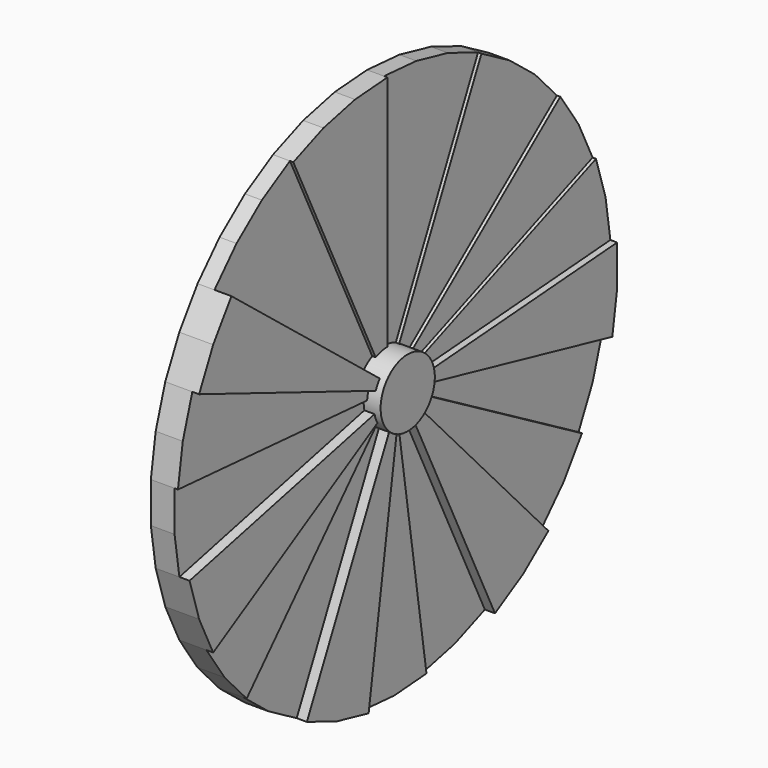
from build123d import *

# Parameters (mm, degrees)
F1_DEPTH = 25.4
F2_DEPTH = 31.75
F3_DEPTH = 38.1
F4_DEPTH = 44.45
F5_DEPTH = 50.8
F6_DEPTH = 63.5
F7_DEPTH = 76.2


with BuildPart() as f1:
    # F0 (on Right) → F1 (new body)
    with BuildSketch(Plane.YZ):
        with BuildLine():
            ThreePointArc((-27.551617434, 57.2115231118), (-14.1300793062, 61.9079224235), (0, 63.5))
            Line((0, 63.5), (0, 508))
            Line((0, 508), (-75.7134712175, 502.3260597224))
            Line((-75.7134712175, 502.3260597224), (-149.7356286007, 485.4309853394))
            Line((-149.7356286007, 485.4309853394), (-220.4129394717, 457.6921848944))
            Line((-220.4129394717, 457.6921848944), (-27.551617434, 57.2115231118))
        make_face()
        with BuildLine():
            Line((0, 508), (0, 63.5))
            ThreePointArc((0, 63.5), (14.1300793062, 61.9079224235), (27.551617434, 57.2115231118))
            Line((27.551617434, 57.2115231118), (220.4129394717, 457.6921848944))
            Line((220.4129394717, 457.6921848944), (149.7356286007, 485.4309853394))
            Line((149.7356286007, 485.4309853394), (75.7134712175, 502.3260597224))
            Line((75.7134712175, 502.3260597224), (0, 508))
        make_face()
        with BuildLine():
            Line((220.4129394717, 457.6921848944), (27.551617434, 57.2115231118))
            ThreePointArc((27.551617434, 57.2115231118), (39.591602418, 49.6462991367), (49.6462991367, 39.591602418))
            Line((49.6462991367, 39.591602418), (397.1703930938, 316.7328193442))
            Line((397.1703930938, 316.7328193442), (345.5277507876, 372.3903508896))
            Line((345.5277507876, 372.3903508896), (286.1665894963, 419.7292973525))
            Line((286.1665894963, 419.7292973525), (220.4129394717, 457.6921848944))
        make_face()
        with BuildLine():
            Line((59.1104830389, 23.1991550473), (472.8838643113, 185.5932403781))
            Line((472.8838643113, 185.5932403781), (439.9409051225, 254))
            Line((439.9409051225, 254), (397.1703930938, 316.7328193442))
            Line((397.1703930938, 316.7328193442), (49.6462991367, 39.591602418))
            ThreePointArc((49.6462991367, 39.591602418), (54.9926131403, 31.75), (59.1104830389, 23.1991550473))
        make_face()
        with BuildLine():
            Line((63.322441121, 4.7453609427), (506.579528968, 37.9628875419))
            Line((506.579528968, 37.9628875419), (495.2633793884, 113.0406344498))
            Line((495.2633793884, 113.0406344498), (472.8838643113, 185.5932403781))
            Line((472.8838643113, 185.5932403781), (59.1104830389, 23.1991550473))
            ThreePointArc((59.1104830389, 23.1991550473), (61.9079224235, 14.1300793062), (63.322441121, 4.7453609427))
        make_face()
        with BuildLine():
            Line((506.579528968, -37.9628875419), (506.579528968, 37.9628875419))
            Line((506.579528968, 37.9628875419), (63.322441121, 4.7453609427))
            ThreePointArc((63.322441121, 4.7453609427), (63.4555947541, 2.3743408365), (63.5, 0))
            ThreePointArc((63.5, 0), (63.1007253282, -7.1097442326), (61.9079224235, -14.1300793062))
            Line((61.9079224235, -14.1300793062), (495.2633793884, -113.0406344498))
            Line((495.2633793884, -113.0406344498), (506.579528968, -37.9628875419))
        make_face()
        with BuildLine():
            Line((472.8838643113, -185.5932403781), (495.2633793884, -113.0406344498))
            Line((495.2633793884, -113.0406344498), (61.9079224235, -14.1300793062))
            ThreePointArc((61.9079224235, -14.1300793062), (59.1104830389, -23.1991550473), (54.9926131403, -31.75))
            Line((54.9926131403, -31.75), (439.9409051225, -254))
            Line((439.9409051225, -254), (472.8838643113, -185.5932403781))
        make_face()
        with BuildLine():
            Line((439.9409051225, -254), (54.9926131403, -31.75))
            ThreePointArc((54.9926131403, -31.75), (49.6462991367, -39.591602418), (43.1909688485, -46.5487938612))
            Line((43.1909688485, -46.5487938612), (345.5277507876, -372.3903508896))
            Line((345.5277507876, -372.3903508896), (397.1703930938, -316.7328193442))
            Line((397.1703930938, -316.7328193442), (439.9409051225, -254))
        make_face()
        with BuildLine():
            Line((345.5277507876, -372.3903508896), (43.1909688485, -46.5487938612))
            ThreePointArc((43.1909688485, -46.5487938612), (35.770823687, -52.4661621691), (27.551617434, -57.2115231118))
            Line((27.551617434, -57.2115231118), (220.4129394717, -457.6921848944))
            Line((220.4129394717, -457.6921848944), (286.1665894963, -419.7292973525))
            Line((286.1665894963, -419.7292973525), (345.5277507876, -372.3903508896))
        make_face()
        with BuildLine():
            Line((220.4129394717, -457.6921848944), (27.551617434, -57.2115231118))
            ThreePointArc((27.551617434, -57.2115231118), (18.7169535751, -60.6788731674), (9.4641839022, -62.7907574653))
            Line((9.4641839022, -62.7907574653), (75.7134712175, -502.3260597224))
            Line((75.7134712175, -502.3260597224), (149.7356286007, -485.4309853394))
            Line((149.7356286007, -485.4309853394), (220.4129394717, -457.6921848944))
        make_face()
        with BuildLine():
            Line((75.7134712175, -502.3260597224), (9.4641839022, -62.7907574653))
            ThreePointArc((9.4641839022, -62.7907574653), (0, -63.5), (-9.4641839022, -62.7907574653))
            Line((-9.4641839022, -62.7907574653), (-75.7134712175, -502.3260597224))
            Line((-75.7134712175, -502.3260597224), (0, -508))
            Line((0, -508), (75.7134712175, -502.3260597224))
        make_face()
        with BuildLine():
            Line((-75.7134712175, -502.3260597224), (-9.4641839022, -62.7907574653))
            ThreePointArc((-9.4641839022, -62.7907574653), (-18.7169535751, -60.6788731674), (-27.551617434, -57.2115231118))
            Line((-27.551617434, -57.2115231118), (-220.4129394717, -457.6921848944))
            Line((-220.4129394717, -457.6921848944), (-149.7356286007, -485.4309853394))
            Line((-149.7356286007, -485.4309853394), (-75.7134712175, -502.3260597224))
        make_face()
        with BuildLine():
            Line((-220.4129394717, -457.6921848944), (-27.551617434, -57.2115231118))
            ThreePointArc((-27.551617434, -57.2115231118), (-35.770823687, -52.4661621691), (-43.1909688485, -46.5487938612))
            Line((-43.1909688485, -46.5487938612), (-345.5277507876, -372.3903508896))
            Line((-345.5277507876, -372.3903508896), (-286.1665894963, -419.7292973525))
            Line((-286.1665894963, -419.7292973525), (-220.4129394717, -457.6921848944))
        make_face()
        with BuildLine():
            Line((-345.5277507876, -372.3903508896), (-43.1909688485, -46.5487938612))
            ThreePointArc((-43.1909688485, -46.5487938612), (-49.6462991367, -39.591602418), (-54.9926131403, -31.75))
            Line((-54.9926131403, -31.75), (-439.9409051225, -254))
            Line((-439.9409051225, -254), (-397.1703930938, -316.7328193442))
            Line((-397.1703930938, -316.7328193442), (-345.5277507876, -372.3903508896))
        make_face()
        with BuildLine():
            Line((-439.9409051225, -254), (-54.9926131403, -31.75))
            ThreePointArc((-54.9926131403, -31.75), (-59.1104830389, -23.1991550473), (-61.9079224235, -14.1300793062))
            Line((-61.9079224235, -14.1300793062), (-495.2633793884, -113.0406344498))
            Line((-495.2633793884, -113.0406344498), (-472.8838643113, -185.5932403781))
            Line((-472.8838643113, -185.5932403781), (-439.9409051225, -254))
        make_face()
        with BuildLine():
            Line((-495.2633793884, -113.0406344498), (-61.9079224235, -14.1300793062))
            ThreePointArc((-61.9079224235, -14.1300793062), (-63.322441121, -4.7453609427), (-63.322441121, 4.7453609427))
            Line((-63.322441121, 4.7453609427), (-506.579528968, 37.9628875419))
            Line((-506.579528968, 37.9628875419), (-506.579528968, -37.9628875419))
            Line((-506.579528968, -37.9628875419), (-495.2633793884, -113.0406344498))
        make_face()
        with BuildLine():
            Line((-506.579528968, 37.9628875419), (-63.322441121, 4.7453609427))
            ThreePointArc((-63.322441121, 4.7453609427), (-61.9079224235, 14.1300793062), (-59.1104830389, 23.1991550473))
            Line((-59.1104830389, 23.1991550473), (-472.8838643113, 185.5932403781))
            Line((-472.8838643113, 185.5932403781), (-495.2633793884, 113.0406344498))
            Line((-495.2633793884, 113.0406344498), (-506.579528968, 37.9628875419))
        make_face()
        with BuildLine():
            ThreePointArc((-59.1104830389, 23.1991550473), (-54.9926131403, 31.75), (-49.6462991367, 39.591602418))
            Line((-49.6462991367, 39.591602418), (-397.1703930938, 316.7328193442))
            Line((-397.1703930938, 316.7328193442), (-439.9409051225, 254))
            Line((-439.9409051225, 254), (-472.8838643113, 185.5932403781))
            Line((-472.8838643113, 185.5932403781), (-59.1104830389, 23.1991550473))
        make_face()
        with BuildLine():
            ThreePointArc((-49.6462991367, 39.591602418), (-39.591602418, 49.6462991367), (-27.551617434, 57.2115231118))
            Line((-27.551617434, 57.2115231118), (-220.4129394717, 457.6921848944))
            Line((-220.4129394717, 457.6921848944), (-286.1665894963, 419.7292973525))
            Line((-286.1665894963, 419.7292973525), (-345.5277507876, 372.3903508896))
            Line((-345.5277507876, 372.3903508896), (-397.1703930938, 316.7328193442))
            Line((-397.1703930938, 316.7328193442), (-49.6462991367, 39.591602418))
        make_face()
    extrude(amount=F1_DEPTH)

    # F0 (on Right) → F2 (join)
    with BuildSketch(Plane.YZ):
        with BuildLine():
            Line((0, 508), (0, 63.5))
            ThreePointArc((0, 63.5), (14.1300793062, 61.9079224235), (27.551617434, 57.2115231118))
            Line((27.551617434, 57.2115231118), (220.4129394717, 457.6921848944))
            Line((220.4129394717, 457.6921848944), (149.7356286007, 485.4309853394))
            Line((149.7356286007, 485.4309853394), (75.7134712175, 502.3260597224))
            Line((75.7134712175, 502.3260597224), (0, 508))
        make_face()
        with BuildLine():
            ThreePointArc((-49.6462991367, 39.591602418), (-39.591602418, 49.6462991367), (-27.551617434, 57.2115231118))
            Line((-27.551617434, 57.2115231118), (-220.4129394717, 457.6921848944))
            Line((-220.4129394717, 457.6921848944), (-286.1665894963, 419.7292973525))
            Line((-286.1665894963, 419.7292973525), (-345.5277507876, 372.3903508896))
            Line((-345.5277507876, 372.3903508896), (-397.1703930938, 316.7328193442))
            Line((-397.1703930938, 316.7328193442), (-49.6462991367, 39.591602418))
        make_face()
        with BuildLine():
            Line((0, 63.5), (0, 0))
            Line((0, 0), (27.551617434, 57.2115231118))
            ThreePointArc((27.551617434, 57.2115231118), (14.1300793062, 61.9079224235), (0, 63.5))
        make_face()
        with BuildLine():
            Line((-27.551617434, 57.2115231118), (0, 0))
            Line((0, 0), (0, 63.5))
            ThreePointArc((0, 63.5), (-14.1300793062, 61.9079224235), (-27.551617434, 57.2115231118))
        make_face()
        with BuildLine():
            Line((-49.6462991367, 39.591602418), (0, 0))
            Line((0, 0), (-27.551617434, 57.2115231118))
            ThreePointArc((-27.551617434, 57.2115231118), (-39.591602418, 49.6462991367), (-49.6462991367, 39.591602418))
        make_face()
    extrude(amount=F2_DEPTH)

    # F0 (on Right) → F3 (join)
    with BuildSketch(Plane.YZ):
        with BuildLine():
            ThreePointArc((-27.551617434, 57.2115231118), (-14.1300793062, 61.9079224235), (0, 63.5))
            Line((0, 63.5), (0, 508))
            Line((0, 508), (-75.7134712175, 502.3260597224))
            Line((-75.7134712175, 502.3260597224), (-149.7356286007, 485.4309853394))
            Line((-149.7356286007, 485.4309853394), (-220.4129394717, 457.6921848944))
            Line((-220.4129394717, 457.6921848944), (-27.551617434, 57.2115231118))
        make_face()
        with BuildLine():
            Line((220.4129394717, 457.6921848944), (27.551617434, 57.2115231118))
            ThreePointArc((27.551617434, 57.2115231118), (39.591602418, 49.6462991367), (49.6462991367, 39.591602418))
            Line((49.6462991367, 39.591602418), (397.1703930938, 316.7328193442))
            Line((397.1703930938, 316.7328193442), (345.5277507876, 372.3903508896))
            Line((345.5277507876, 372.3903508896), (286.1665894963, 419.7292973525))
            Line((286.1665894963, 419.7292973525), (220.4129394717, 457.6921848944))
        make_face()
        with BuildLine():
            Line((27.551617434, 57.2115231118), (0, 0))
            Line((0, 0), (49.6462991367, 39.591602418))
            ThreePointArc((49.6462991367, 39.591602418), (39.591602418, 49.6462991367), (27.551617434, 57.2115231118))
        make_face()
        with BuildLine():
            Line((0, 63.5), (0, 0))
            Line((0, 0), (27.551617434, 57.2115231118))
            ThreePointArc((27.551617434, 57.2115231118), (14.1300793062, 61.9079224235), (0, 63.5))
        make_face()
        with BuildLine():
            Line((-27.551617434, 57.2115231118), (0, 0))
            Line((0, 0), (0, 63.5))
            ThreePointArc((0, 63.5), (-14.1300793062, 61.9079224235), (-27.551617434, 57.2115231118))
        make_face()
    extrude(amount=F3_DEPTH)

    # F0 (on Right) → F4 (join)
    with BuildSketch(Plane.YZ):
        with BuildLine():
            Line((59.1104830389, 23.1991550473), (472.8838643113, 185.5932403781))
            Line((472.8838643113, 185.5932403781), (439.9409051225, 254))
            Line((439.9409051225, 254), (397.1703930938, 316.7328193442))
            Line((397.1703930938, 316.7328193442), (49.6462991367, 39.591602418))
            ThreePointArc((49.6462991367, 39.591602418), (54.9926131403, 31.75), (59.1104830389, 23.1991550473))
        make_face()
        with BuildLine():
            Line((472.8838643113, -185.5932403781), (495.2633793884, -113.0406344498))
            Line((495.2633793884, -113.0406344498), (61.9079224235, -14.1300793062))
            ThreePointArc((61.9079224235, -14.1300793062), (59.1104830389, -23.1991550473), (54.9926131403, -31.75))
            Line((54.9926131403, -31.75), (439.9409051225, -254))
            Line((439.9409051225, -254), (472.8838643113, -185.5932403781))
        make_face()
        with BuildLine():
            Line((220.4129394717, -457.6921848944), (27.551617434, -57.2115231118))
            ThreePointArc((27.551617434, -57.2115231118), (18.7169535751, -60.6788731674), (9.4641839022, -62.7907574653))
            Line((9.4641839022, -62.7907574653), (75.7134712175, -502.3260597224))
            Line((75.7134712175, -502.3260597224), (149.7356286007, -485.4309853394))
            Line((149.7356286007, -485.4309853394), (220.4129394717, -457.6921848944))
        make_face()
        with BuildLine():
            Line((-220.4129394717, -457.6921848944), (-27.551617434, -57.2115231118))
            ThreePointArc((-27.551617434, -57.2115231118), (-35.770823687, -52.4661621691), (-43.1909688485, -46.5487938612))
            Line((-43.1909688485, -46.5487938612), (-345.5277507876, -372.3903508896))
            Line((-345.5277507876, -372.3903508896), (-286.1665894963, -419.7292973525))
            Line((-286.1665894963, -419.7292973525), (-220.4129394717, -457.6921848944))
        make_face()
        with BuildLine():
            Line((-495.2633793884, -113.0406344498), (-61.9079224235, -14.1300793062))
            ThreePointArc((-61.9079224235, -14.1300793062), (-63.322441121, -4.7453609427), (-63.322441121, 4.7453609427))
            Line((-63.322441121, 4.7453609427), (-506.579528968, 37.9628875419))
            Line((-506.579528968, 37.9628875419), (-506.579528968, -37.9628875419))
            Line((-506.579528968, -37.9628875419), (-495.2633793884, -113.0406344498))
        make_face()
        with BuildLine():
            Line((49.6462991367, 39.591602418), (0, 0))
            Line((0, 0), (59.1104830389, 23.1991550473))
            ThreePointArc((59.1104830389, 23.1991550473), (54.9926131403, 31.75), (49.6462991367, 39.591602418))
        make_face()
        with BuildLine():
            Line((0, 0), (63.322441121, 4.7453609427))
            ThreePointArc((63.322441121, 4.7453609427), (61.9079224235, 14.1300793062), (59.1104830389, 23.1991550473))
            Line((59.1104830389, 23.1991550473), (0, 0))
        make_face()
        with BuildLine():
            ThreePointArc((63.5, 0), (63.4555947541, 2.3743408365), (63.322441121, 4.7453609427))
            Line((63.322441121, 4.7453609427), (0, 0))
            Line((0, 0), (61.9079224235, -14.1300793062))
            ThreePointArc((61.9079224235, -14.1300793062), (63.1007253282, -7.1097442326), (63.5, 0))
        make_face()
        with BuildLine():
            Line((61.9079224235, -14.1300793062), (0, 0))
            Line((0, 0), (54.9926131403, -31.75))
            ThreePointArc((54.9926131403, -31.75), (59.1104830389, -23.1991550473), (61.9079224235, -14.1300793062))
        make_face()
        with BuildLine():
            Line((54.9926131403, -31.75), (0, 0))
            Line((0, 0), (43.1909688485, -46.5487938612))
            ThreePointArc((43.1909688485, -46.5487938612), (49.6462991367, -39.591602418), (54.9926131403, -31.75))
        make_face()
        with BuildLine():
            Line((43.1909688485, -46.5487938612), (0, 0))
            Line((0, 0), (27.551617434, -57.2115231118))
            ThreePointArc((27.551617434, -57.2115231118), (35.770823687, -52.4661621691), (43.1909688485, -46.5487938612))
        make_face()
        with BuildLine():
            Line((27.551617434, -57.2115231118), (0, 0))
            Line((0, 0), (9.4641839022, -62.7907574653))
            ThreePointArc((9.4641839022, -62.7907574653), (18.7169535751, -60.6788731674), (27.551617434, -57.2115231118))
        make_face()
        with BuildLine():
            Line((9.4641839022, -62.7907574653), (0, 0))
            Line((0, 0), (-9.4641839022, -62.7907574653))
            ThreePointArc((-9.4641839022, -62.7907574653), (0, -63.5), (9.4641839022, -62.7907574653))
        make_face()
        with BuildLine():
            Line((-9.4641839022, -62.7907574653), (0, 0))
            Line((0, 0), (-27.551617434, -57.2115231118))
            ThreePointArc((-27.551617434, -57.2115231118), (-18.7169535751, -60.6788731674), (-9.4641839022, -62.7907574653))
        make_face()
        with BuildLine():
            Line((-27.551617434, -57.2115231118), (0, 0))
            Line((0, 0), (-43.1909688485, -46.5487938612))
            ThreePointArc((-43.1909688485, -46.5487938612), (-35.770823687, -52.4661621691), (-27.551617434, -57.2115231118))
        make_face()
        with BuildLine():
            Line((-43.1909688485, -46.5487938612), (0, 0))
            Line((0, 0), (-54.9926131403, -31.75))
            ThreePointArc((-54.9926131403, -31.75), (-49.6462991367, -39.591602418), (-43.1909688485, -46.5487938612))
        make_face()
        with BuildLine():
            Line((-54.9926131403, -31.75), (0, 0))
            Line((0, 0), (-61.9079224235, -14.1300793062))
            ThreePointArc((-61.9079224235, -14.1300793062), (-59.1104830389, -23.1991550473), (-54.9926131403, -31.75))
        make_face()
        with BuildLine():
            Line((-61.9079224235, -14.1300793062), (0, 0))
            Line((0, 0), (-63.322441121, 4.7453609427))
            ThreePointArc((-63.322441121, 4.7453609427), (-63.322441121, -4.7453609427), (-61.9079224235, -14.1300793062))
        make_face()
    extrude(amount=F4_DEPTH)

    # F0 (on Right) → F5 (join)
    with BuildSketch(Plane.YZ):
        with BuildLine():
            Line((63.322441121, 4.7453609427), (506.579528968, 37.9628875419))
            Line((506.579528968, 37.9628875419), (495.2633793884, 113.0406344498))
            Line((495.2633793884, 113.0406344498), (472.8838643113, 185.5932403781))
            Line((472.8838643113, 185.5932403781), (59.1104830389, 23.1991550473))
            ThreePointArc((59.1104830389, 23.1991550473), (61.9079224235, 14.1300793062), (63.322441121, 4.7453609427))
        make_face()
        with BuildLine():
            Line((439.9409051225, -254), (54.9926131403, -31.75))
            ThreePointArc((54.9926131403, -31.75), (49.6462991367, -39.591602418), (43.1909688485, -46.5487938612))
            Line((43.1909688485, -46.5487938612), (345.5277507876, -372.3903508896))
            Line((345.5277507876, -372.3903508896), (397.1703930938, -316.7328193442))
            Line((397.1703930938, -316.7328193442), (439.9409051225, -254))
        make_face()
        with BuildLine():
            Line((75.7134712175, -502.3260597224), (9.4641839022, -62.7907574653))
            ThreePointArc((9.4641839022, -62.7907574653), (0, -63.5), (-9.4641839022, -62.7907574653))
            Line((-9.4641839022, -62.7907574653), (-75.7134712175, -502.3260597224))
            Line((-75.7134712175, -502.3260597224), (0, -508))
            Line((0, -508), (75.7134712175, -502.3260597224))
        make_face()
        with BuildLine():
            Line((-345.5277507876, -372.3903508896), (-43.1909688485, -46.5487938612))
            ThreePointArc((-43.1909688485, -46.5487938612), (-49.6462991367, -39.591602418), (-54.9926131403, -31.75))
            Line((-54.9926131403, -31.75), (-439.9409051225, -254))
            Line((-439.9409051225, -254), (-397.1703930938, -316.7328193442))
            Line((-397.1703930938, -316.7328193442), (-345.5277507876, -372.3903508896))
        make_face()
        with BuildLine():
            Line((-506.579528968, 37.9628875419), (-63.322441121, 4.7453609427))
            ThreePointArc((-63.322441121, 4.7453609427), (-61.9079224235, 14.1300793062), (-59.1104830389, 23.1991550473))
            Line((-59.1104830389, 23.1991550473), (-472.8838643113, 185.5932403781))
            Line((-472.8838643113, 185.5932403781), (-495.2633793884, 113.0406344498))
            Line((-495.2633793884, 113.0406344498), (-506.579528968, 37.9628875419))
        make_face()
        with BuildLine():
            Line((0, 0), (63.322441121, 4.7453609427))
            ThreePointArc((63.322441121, 4.7453609427), (61.9079224235, 14.1300793062), (59.1104830389, 23.1991550473))
            Line((59.1104830389, 23.1991550473), (0, 0))
        make_face()
        with BuildLine():
            ThreePointArc((63.5, 0), (63.4555947541, 2.3743408365), (63.322441121, 4.7453609427))
            Line((63.322441121, 4.7453609427), (0, 0))
            Line((0, 0), (61.9079224235, -14.1300793062))
            ThreePointArc((61.9079224235, -14.1300793062), (63.1007253282, -7.1097442326), (63.5, 0))
        make_face()
        with BuildLine():
            Line((61.9079224235, -14.1300793062), (0, 0))
            Line((0, 0), (54.9926131403, -31.75))
            ThreePointArc((54.9926131403, -31.75), (59.1104830389, -23.1991550473), (61.9079224235, -14.1300793062))
        make_face()
        with BuildLine():
            Line((54.9926131403, -31.75), (0, 0))
            Line((0, 0), (43.1909688485, -46.5487938612))
            ThreePointArc((43.1909688485, -46.5487938612), (49.6462991367, -39.591602418), (54.9926131403, -31.75))
        make_face()
        with BuildLine():
            Line((43.1909688485, -46.5487938612), (0, 0))
            Line((0, 0), (27.551617434, -57.2115231118))
            ThreePointArc((27.551617434, -57.2115231118), (35.770823687, -52.4661621691), (43.1909688485, -46.5487938612))
        make_face()
        with BuildLine():
            Line((27.551617434, -57.2115231118), (0, 0))
            Line((0, 0), (9.4641839022, -62.7907574653))
            ThreePointArc((9.4641839022, -62.7907574653), (18.7169535751, -60.6788731674), (27.551617434, -57.2115231118))
        make_face()
        with BuildLine():
            Line((9.4641839022, -62.7907574653), (0, 0))
            Line((0, 0), (-9.4641839022, -62.7907574653))
            ThreePointArc((-9.4641839022, -62.7907574653), (0, -63.5), (9.4641839022, -62.7907574653))
        make_face()
        with BuildLine():
            Line((-9.4641839022, -62.7907574653), (0, 0))
            Line((0, 0), (-27.551617434, -57.2115231118))
            ThreePointArc((-27.551617434, -57.2115231118), (-18.7169535751, -60.6788731674), (-9.4641839022, -62.7907574653))
        make_face()
        with BuildLine():
            Line((-27.551617434, -57.2115231118), (0, 0))
            Line((0, 0), (-43.1909688485, -46.5487938612))
            ThreePointArc((-43.1909688485, -46.5487938612), (-35.770823687, -52.4661621691), (-27.551617434, -57.2115231118))
        make_face()
        with BuildLine():
            Line((-43.1909688485, -46.5487938612), (0, 0))
            Line((0, 0), (-54.9926131403, -31.75))
            ThreePointArc((-54.9926131403, -31.75), (-49.6462991367, -39.591602418), (-43.1909688485, -46.5487938612))
        make_face()
        with BuildLine():
            Line((-54.9926131403, -31.75), (0, 0))
            Line((0, 0), (-61.9079224235, -14.1300793062))
            ThreePointArc((-61.9079224235, -14.1300793062), (-59.1104830389, -23.1991550473), (-54.9926131403, -31.75))
        make_face()
        with BuildLine():
            Line((-61.9079224235, -14.1300793062), (0, 0))
            Line((0, 0), (-63.322441121, 4.7453609427))
            ThreePointArc((-63.322441121, 4.7453609427), (-63.322441121, -4.7453609427), (-61.9079224235, -14.1300793062))
        make_face()
        with BuildLine():
            Line((-63.322441121, 4.7453609427), (0, 0))
            Line((0, 0), (-59.1104830389, 23.1991550473))
            ThreePointArc((-59.1104830389, 23.1991550473), (-61.9079224235, 14.1300793062), (-63.322441121, 4.7453609427))
        make_face()
    extrude(amount=F5_DEPTH)

    # F0 (on Right) → F6 (join)
    with BuildSketch(Plane.YZ):
        with BuildLine():
            Line((506.579528968, -37.9628875419), (506.579528968, 37.9628875419))
            Line((506.579528968, 37.9628875419), (63.322441121, 4.7453609427))
            ThreePointArc((63.322441121, 4.7453609427), (63.4555947541, 2.3743408365), (63.5, 0))
            ThreePointArc((63.5, 0), (63.1007253282, -7.1097442326), (61.9079224235, -14.1300793062))
            Line((61.9079224235, -14.1300793062), (495.2633793884, -113.0406344498))
            Line((495.2633793884, -113.0406344498), (506.579528968, -37.9628875419))
        make_face()
        with BuildLine():
            Line((345.5277507876, -372.3903508896), (43.1909688485, -46.5487938612))
            ThreePointArc((43.1909688485, -46.5487938612), (35.770823687, -52.4661621691), (27.551617434, -57.2115231118))
            Line((27.551617434, -57.2115231118), (220.4129394717, -457.6921848944))
            Line((220.4129394717, -457.6921848944), (286.1665894963, -419.7292973525))
            Line((286.1665894963, -419.7292973525), (345.5277507876, -372.3903508896))
        make_face()
        with BuildLine():
            Line((-75.7134712175, -502.3260597224), (-9.4641839022, -62.7907574653))
            ThreePointArc((-9.4641839022, -62.7907574653), (-18.7169535751, -60.6788731674), (-27.551617434, -57.2115231118))
            Line((-27.551617434, -57.2115231118), (-220.4129394717, -457.6921848944))
            Line((-220.4129394717, -457.6921848944), (-149.7356286007, -485.4309853394))
            Line((-149.7356286007, -485.4309853394), (-75.7134712175, -502.3260597224))
        make_face()
        with BuildLine():
            Line((-439.9409051225, -254), (-54.9926131403, -31.75))
            ThreePointArc((-54.9926131403, -31.75), (-59.1104830389, -23.1991550473), (-61.9079224235, -14.1300793062))
            Line((-61.9079224235, -14.1300793062), (-495.2633793884, -113.0406344498))
            Line((-495.2633793884, -113.0406344498), (-472.8838643113, -185.5932403781))
            Line((-472.8838643113, -185.5932403781), (-439.9409051225, -254))
        make_face()
        with BuildLine():
            ThreePointArc((-59.1104830389, 23.1991550473), (-54.9926131403, 31.75), (-49.6462991367, 39.591602418))
            Line((-49.6462991367, 39.591602418), (-397.1703930938, 316.7328193442))
            Line((-397.1703930938, 316.7328193442), (-439.9409051225, 254))
            Line((-439.9409051225, 254), (-472.8838643113, 185.5932403781))
            Line((-472.8838643113, 185.5932403781), (-59.1104830389, 23.1991550473))
        make_face()
        with BuildLine():
            ThreePointArc((63.5, 0), (63.4555947541, 2.3743408365), (63.322441121, 4.7453609427))
            Line((63.322441121, 4.7453609427), (0, 0))
            Line((0, 0), (61.9079224235, -14.1300793062))
            ThreePointArc((61.9079224235, -14.1300793062), (63.1007253282, -7.1097442326), (63.5, 0))
        make_face()
        with BuildLine():
            Line((61.9079224235, -14.1300793062), (0, 0))
            Line((0, 0), (54.9926131403, -31.75))
            ThreePointArc((54.9926131403, -31.75), (59.1104830389, -23.1991550473), (61.9079224235, -14.1300793062))
        make_face()
        with BuildLine():
            Line((54.9926131403, -31.75), (0, 0))
            Line((0, 0), (43.1909688485, -46.5487938612))
            ThreePointArc((43.1909688485, -46.5487938612), (49.6462991367, -39.591602418), (54.9926131403, -31.75))
        make_face()
        with BuildLine():
            Line((43.1909688485, -46.5487938612), (0, 0))
            Line((0, 0), (27.551617434, -57.2115231118))
            ThreePointArc((27.551617434, -57.2115231118), (35.770823687, -52.4661621691), (43.1909688485, -46.5487938612))
        make_face()
        with BuildLine():
            Line((27.551617434, -57.2115231118), (0, 0))
            Line((0, 0), (9.4641839022, -62.7907574653))
            ThreePointArc((9.4641839022, -62.7907574653), (18.7169535751, -60.6788731674), (27.551617434, -57.2115231118))
        make_face()
        with BuildLine():
            Line((9.4641839022, -62.7907574653), (0, 0))
            Line((0, 0), (-9.4641839022, -62.7907574653))
            ThreePointArc((-9.4641839022, -62.7907574653), (0, -63.5), (9.4641839022, -62.7907574653))
        make_face()
        with BuildLine():
            Line((-9.4641839022, -62.7907574653), (0, 0))
            Line((0, 0), (-27.551617434, -57.2115231118))
            ThreePointArc((-27.551617434, -57.2115231118), (-18.7169535751, -60.6788731674), (-9.4641839022, -62.7907574653))
        make_face()
        with BuildLine():
            Line((-27.551617434, -57.2115231118), (0, 0))
            Line((0, 0), (-43.1909688485, -46.5487938612))
            ThreePointArc((-43.1909688485, -46.5487938612), (-35.770823687, -52.4661621691), (-27.551617434, -57.2115231118))
        make_face()
        with BuildLine():
            Line((-43.1909688485, -46.5487938612), (0, 0))
            Line((0, 0), (-54.9926131403, -31.75))
            ThreePointArc((-54.9926131403, -31.75), (-49.6462991367, -39.591602418), (-43.1909688485, -46.5487938612))
        make_face()
        with BuildLine():
            Line((-54.9926131403, -31.75), (0, 0))
            Line((0, 0), (-61.9079224235, -14.1300793062))
            ThreePointArc((-61.9079224235, -14.1300793062), (-59.1104830389, -23.1991550473), (-54.9926131403, -31.75))
        make_face()
        with BuildLine():
            Line((-61.9079224235, -14.1300793062), (0, 0))
            Line((0, 0), (-63.322441121, 4.7453609427))
            ThreePointArc((-63.322441121, 4.7453609427), (-63.322441121, -4.7453609427), (-61.9079224235, -14.1300793062))
        make_face()
        with BuildLine():
            Line((-63.322441121, 4.7453609427), (0, 0))
            Line((0, 0), (-59.1104830389, 23.1991550473))
            ThreePointArc((-59.1104830389, 23.1991550473), (-61.9079224235, 14.1300793062), (-63.322441121, 4.7453609427))
        make_face()
        with BuildLine():
            Line((-59.1104830389, 23.1991550473), (0, 0))
            Line((0, 0), (-49.6462991367, 39.591602418))
            ThreePointArc((-49.6462991367, 39.591602418), (-54.9926131403, 31.75), (-59.1104830389, 23.1991550473))
        make_face()
    extrude(amount=F6_DEPTH)

    # F0 (on Right) → F7 (join)
    with BuildSketch(Plane.YZ):
        with BuildLine():
            Line((-49.6462991367, 39.591602418), (0, 0))
            Line((0, 0), (-27.551617434, 57.2115231118))
            ThreePointArc((-27.551617434, 57.2115231118), (-39.591602418, 49.6462991367), (-49.6462991367, 39.591602418))
        make_face()
        with BuildLine():
            Line((-59.1104830389, 23.1991550473), (0, 0))
            Line((0, 0), (-49.6462991367, 39.591602418))
            ThreePointArc((-49.6462991367, 39.591602418), (-54.9926131403, 31.75), (-59.1104830389, 23.1991550473))
        make_face()
        with BuildLine():
            Line((-63.322441121, 4.7453609427), (0, 0))
            Line((0, 0), (-59.1104830389, 23.1991550473))
            ThreePointArc((-59.1104830389, 23.1991550473), (-61.9079224235, 14.1300793062), (-63.322441121, 4.7453609427))
        make_face()
        with BuildLine():
            Line((-61.9079224235, -14.1300793062), (0, 0))
            Line((0, 0), (-63.322441121, 4.7453609427))
            ThreePointArc((-63.322441121, 4.7453609427), (-63.322441121, -4.7453609427), (-61.9079224235, -14.1300793062))
        make_face()
        with BuildLine():
            Line((-54.9926131403, -31.75), (0, 0))
            Line((0, 0), (-61.9079224235, -14.1300793062))
            ThreePointArc((-61.9079224235, -14.1300793062), (-59.1104830389, -23.1991550473), (-54.9926131403, -31.75))
        make_face()
        with BuildLine():
            Line((-43.1909688485, -46.5487938612), (0, 0))
            Line((0, 0), (-54.9926131403, -31.75))
            ThreePointArc((-54.9926131403, -31.75), (-49.6462991367, -39.591602418), (-43.1909688485, -46.5487938612))
        make_face()
        with BuildLine():
            Line((-27.551617434, -57.2115231118), (0, 0))
            Line((0, 0), (-43.1909688485, -46.5487938612))
            ThreePointArc((-43.1909688485, -46.5487938612), (-35.770823687, -52.4661621691), (-27.551617434, -57.2115231118))
        make_face()
        with BuildLine():
            Line((-9.4641839022, -62.7907574653), (0, 0))
            Line((0, 0), (-27.551617434, -57.2115231118))
            ThreePointArc((-27.551617434, -57.2115231118), (-18.7169535751, -60.6788731674), (-9.4641839022, -62.7907574653))
        make_face()
        with BuildLine():
            Line((9.4641839022, -62.7907574653), (0, 0))
            Line((0, 0), (-9.4641839022, -62.7907574653))
            ThreePointArc((-9.4641839022, -62.7907574653), (0, -63.5), (9.4641839022, -62.7907574653))
        make_face()
        with BuildLine():
            Line((27.551617434, -57.2115231118), (0, 0))
            Line((0, 0), (9.4641839022, -62.7907574653))
            ThreePointArc((9.4641839022, -62.7907574653), (18.7169535751, -60.6788731674), (27.551617434, -57.2115231118))
        make_face()
        with BuildLine():
            Line((43.1909688485, -46.5487938612), (0, 0))
            Line((0, 0), (27.551617434, -57.2115231118))
            ThreePointArc((27.551617434, -57.2115231118), (35.770823687, -52.4661621691), (43.1909688485, -46.5487938612))
        make_face()
        with BuildLine():
            Line((54.9926131403, -31.75), (0, 0))
            Line((0, 0), (43.1909688485, -46.5487938612))
            ThreePointArc((43.1909688485, -46.5487938612), (49.6462991367, -39.591602418), (54.9926131403, -31.75))
        make_face()
        with BuildLine():
            Line((61.9079224235, -14.1300793062), (0, 0))
            Line((0, 0), (54.9926131403, -31.75))
            ThreePointArc((54.9926131403, -31.75), (59.1104830389, -23.1991550473), (61.9079224235, -14.1300793062))
        make_face()
        with BuildLine():
            ThreePointArc((63.5, 0), (63.4555947541, 2.3743408365), (63.322441121, 4.7453609427))
            Line((63.322441121, 4.7453609427), (0, 0))
            Line((0, 0), (61.9079224235, -14.1300793062))
            ThreePointArc((61.9079224235, -14.1300793062), (63.1007253282, -7.1097442326), (63.5, 0))
        make_face()
        with BuildLine():
            Line((0, 0), (63.322441121, 4.7453609427))
            ThreePointArc((63.322441121, 4.7453609427), (61.9079224235, 14.1300793062), (59.1104830389, 23.1991550473))
            Line((59.1104830389, 23.1991550473), (0, 0))
        make_face()
        with BuildLine():
            Line((49.6462991367, 39.591602418), (0, 0))
            Line((0, 0), (59.1104830389, 23.1991550473))
            ThreePointArc((59.1104830389, 23.1991550473), (54.9926131403, 31.75), (49.6462991367, 39.591602418))
        make_face()
        with BuildLine():
            Line((27.551617434, 57.2115231118), (0, 0))
            Line((0, 0), (49.6462991367, 39.591602418))
            ThreePointArc((49.6462991367, 39.591602418), (39.591602418, 49.6462991367), (27.551617434, 57.2115231118))
        make_face()
        with BuildLine():
            Line((0, 63.5), (0, 0))
            Line((0, 0), (27.551617434, 57.2115231118))
            ThreePointArc((27.551617434, 57.2115231118), (14.1300793062, 61.9079224235), (0, 63.5))
        make_face()
        with BuildLine():
            Line((-27.551617434, 57.2115231118), (0, 0))
            Line((0, 0), (0, 63.5))
            ThreePointArc((0, 63.5), (-14.1300793062, 61.9079224235), (-27.551617434, 57.2115231118))
        make_face()
    extrude(amount=F7_DEPTH)


solid = f1.part
